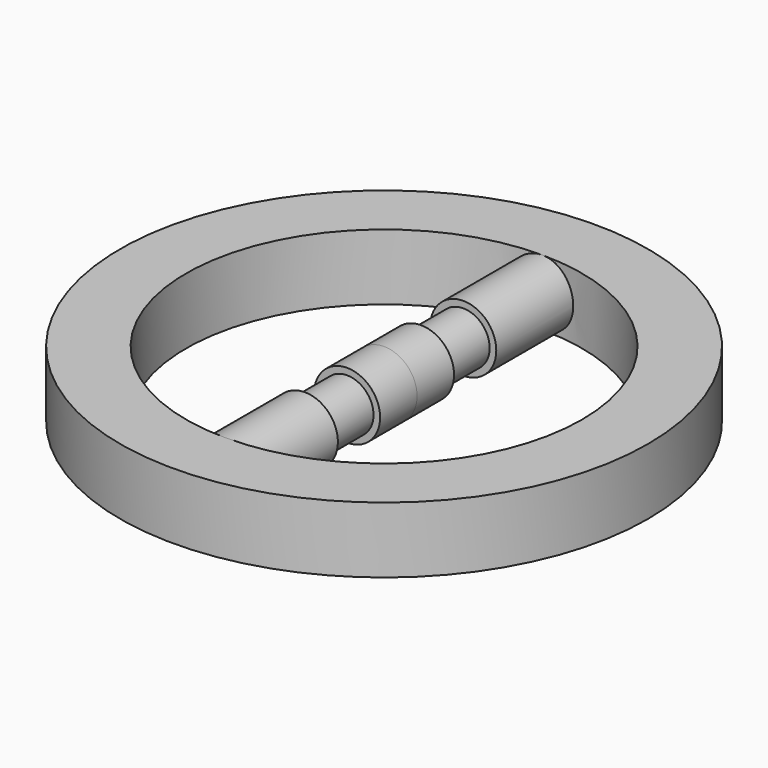
from build123d import *

# Parameters (mm, degrees)
F0_R          = 40
F0_R_2        = 2
F0_R_3        = 30
F1_DEPTH      = 8
F2_R          = 40
F2_R_2        = 30
F3_DEPTH      = 2
F4_R          = 5
F5_DEPTH      = 30
F5_DEPTH_BACK = 30
F6_W          = 8
F6_H          = 1


with BuildPart() as f1:
    # F0 (on Top) → F1 (new body)
    with BuildSketch(Plane.XY):
        Circle(F0_R)
        with Locations((-30.310889, -17.5)):
            Circle(F0_R_2, mode=Mode.SUBTRACT)
        with Locations((0, -35)):
            Circle(F0_R_2, mode=Mode.SUBTRACT)
        with Locations((30.310889, -17.5)):
            Circle(F0_R_2, mode=Mode.SUBTRACT)
        with Locations((-30.310889, 17.5)):
            Circle(F0_R_2, mode=Mode.SUBTRACT)
        Circle(F0_R_3, mode=Mode.SUBTRACT)
        with Locations((30.310889, 17.5)):
            Circle(F0_R_2, mode=Mode.SUBTRACT)
        with Locations((0, 35)):
            Circle(F0_R_2, mode=Mode.SUBTRACT)
    extrude(amount=F1_DEPTH)

    # F2 (on face) → F3 (join)
    with BuildSketch(Plane.XY.offset(8)):
        Circle(F2_R)
        Circle(F2_R_2, mode=Mode.SUBTRACT)
    extrude(amount=F3_DEPTH)

    # F4 (on Front) → F5 (join, two sides)
    with BuildSketch(Plane.XZ) as f5_sk:
        with Locations((0, 5)):
            Circle(F4_R)
    extrude(amount=F5_DEPTH)
    extrude(f5_sk.sketch, amount=-F5_DEPTH_BACK)

    # F6 (on Right) → F7 (revolve, cut)
    with BuildSketch(Plane.YZ):
        with Locations((11, 9.5)):
            Rectangle(F6_W, F6_H)
        with Locations((-11, 9.5)):
            Rectangle(F6_W, F6_H)
    revolve(axis=Axis((0, 0, 5), (0, -1, 0)), mode=Mode.SUBTRACT)


solid = f1.part
